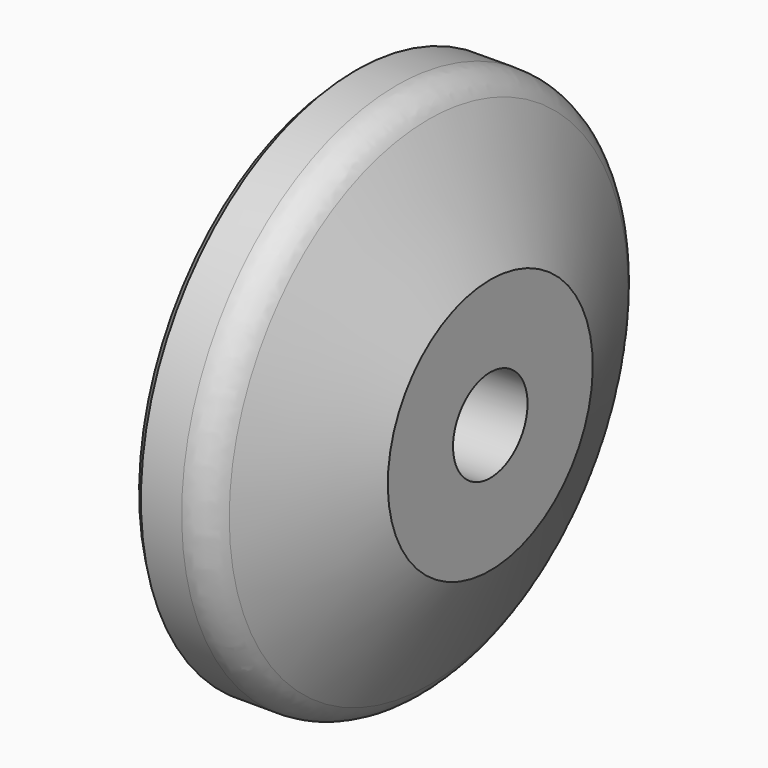
from build123d import *

# Parameters (mm, degrees)
F2_R    = 2
F3_SIZE = 0.5


with BuildPart() as f1:
    # F0 (on Front) → F1 (revolve)
    with BuildSketch(Plane.XZ):
        Polygon((4, 15), (0, 15), (0, 4), (4, 4), (4, 2.6), (8, 2.6), (8, 7.149558), align=None)
    revolve(axis=Axis((12.800059, 0, 0), (1, 0, 0)))

    # F2
    f2_edges = [f1.edges().sort_by_distance(p)[0] for p in [
        (4, 0, -15),
    ]]
    fillet(f2_edges, radius=F2_R)

    # F3
    f3_edges = [f1.edges().sort_by_distance(p)[0] for p in [
        (0, 0, -4),
        (0, 0, -15),
    ]]
    chamfer(f3_edges, length=F3_SIZE)


solid = f1.part
